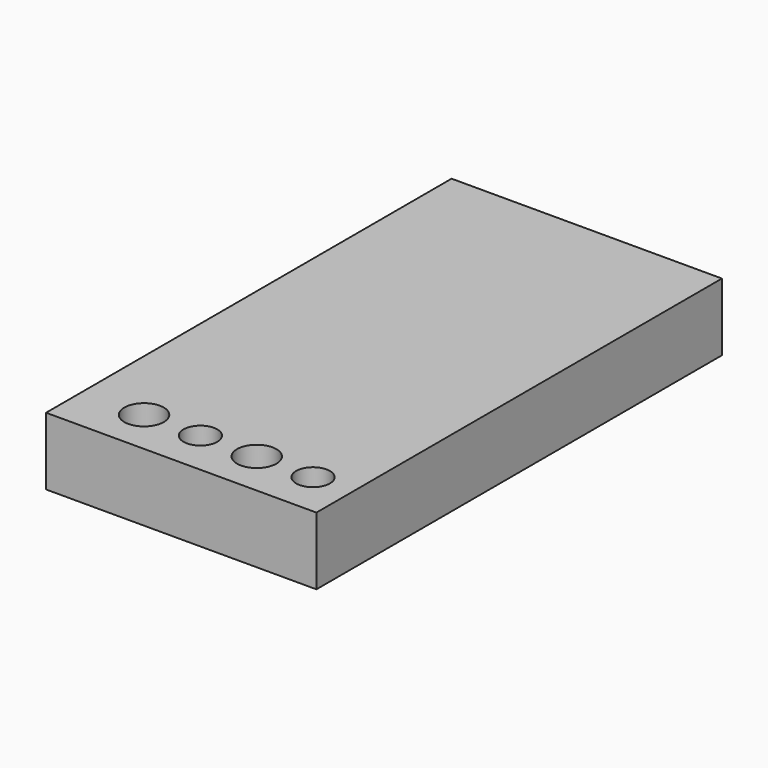
from build123d import *

# Parameters (mm, degrees)
F0_W     = 48
F0_H     = 90
F1_DEPTH = 12
F3_D     = 7
F3_DEPTH = 12
F4_D     = 6
F4_DEPTH = 12


with BuildPart() as f1:
    # F0 (on Top) → F1 (new body)
    with BuildSketch(Plane.XY):
        with Locations((24, -45)):
            Rectangle(F0_W, F0_H)
    extrude(amount=F1_DEPTH)

    # F3
    with Locations(Plane.XY.offset(12)):
        with Locations((11, -82), (31, -82)):
            Hole(F3_D / 2, depth=F3_DEPTH)

    # F4
    with Locations(Plane.XY.offset(12)):
        with Locations((21, -82), (41, -82)):
            Hole(F4_D / 2, depth=F4_DEPTH)


solid = f1.part
